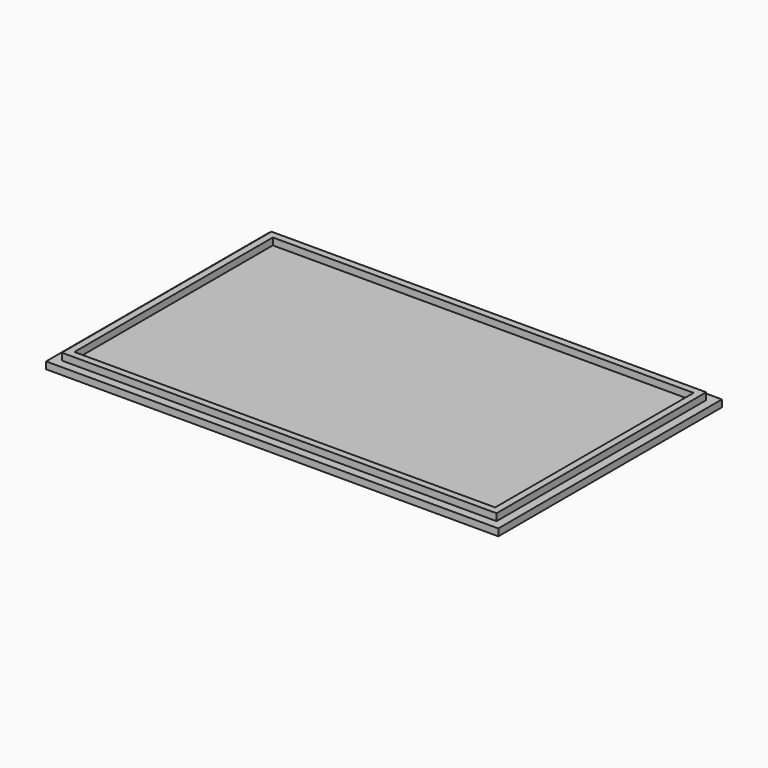
from build123d import *

# Parameters (mm, degrees)
F0_W     = 129.44272
F0_H     = 80
F1_DEPTH = 2
F2_W     = 124.44272
F2_H     = 75
F2_W_2   = 120.44272
F2_H_2   = 71
F3_DEPTH = 2


with BuildPart() as f1:
    # F0 (on Top) → F1 (new body)
    with BuildSketch(Plane.XY):
        Rectangle(F0_W, F0_H)
    extrude(amount=-F1_DEPTH)

    # F2 (on Top) → F3 (join)
    with BuildSketch(Plane.XY):
        Rectangle(F2_W, F2_H)
        Rectangle(F2_W_2, F2_H_2, mode=Mode.SUBTRACT)
    extrude(amount=F3_DEPTH)


solid = f1.part
